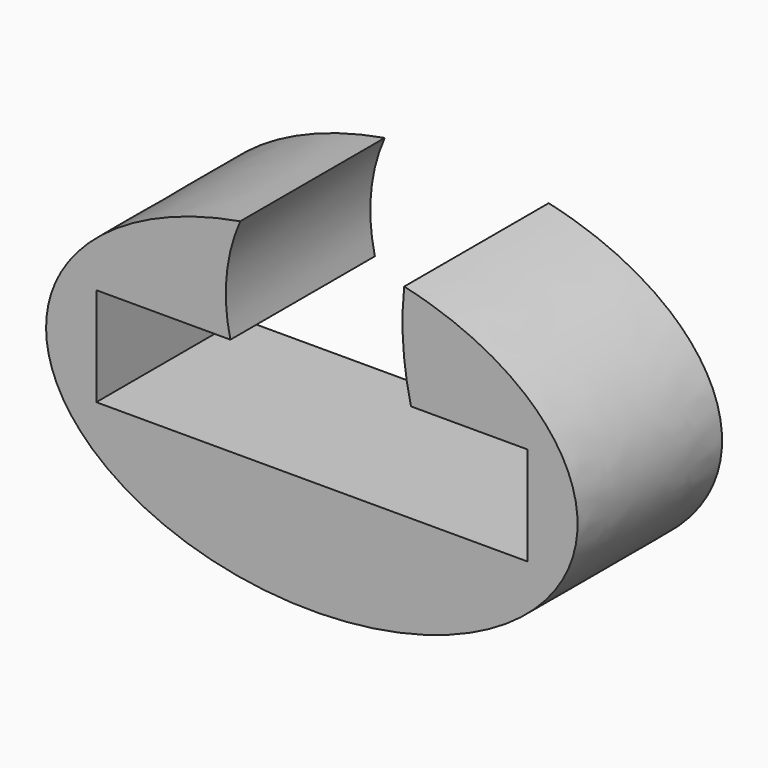
from build123d import *

# Parameters (mm, degrees)
F1_DEPTH = 49.022


with BuildPart() as f1:
    # F0 (on Front) → F1 (new body)
    with BuildSketch(Plane.XZ):
        with BuildLine():
            add(Edge.make_bspline(
                [(-19.432109, 42.545368), (-72.13229, 33.516245), (-72.13229, 0)],
                knots=[4.985154, 4.985154, 4.985154, 6.283185, 6.283185, 6.283185], degree=2, weights=[1, 0.796679, 1]))
            add(Edge.make_bspline(
                [(-72.13229, 0), (-72.13229, -84.565722), (41.201224, -36.262649), (154.534739, 12.040425), (25.064856, 41.425706)],
                knots=[0, 0, 0, 2.178751, 2.178751, 4.357502, 4.357502, 4.357502], degree=2, weights=[1, 0.463039, 1, 0.463039, 1]))
            ThreePointArc((25.064856, 41.425706), (24.790095, 27.325824), (26.920659, 13.385132))
            Line((26.920659, 13.385132), (58.503553, 13.385132))
            Line((58.503553, 13.385132), (58.503553, -13.385132))
            Line((58.503553, -13.385132), (-58.503553, -13.385132))
            Line((-58.503553, -13.385132), (-58.503553, 13.385132))
            Line((-58.503553, 13.385132), (-22.108028, 13.385132))
            ThreePointArc((-22.108028, 13.385132), (-23.164076, 28.184938), (-19.432109, 42.545368))
        make_face()
    extrude(amount=F1_DEPTH)


solid = f1.part
